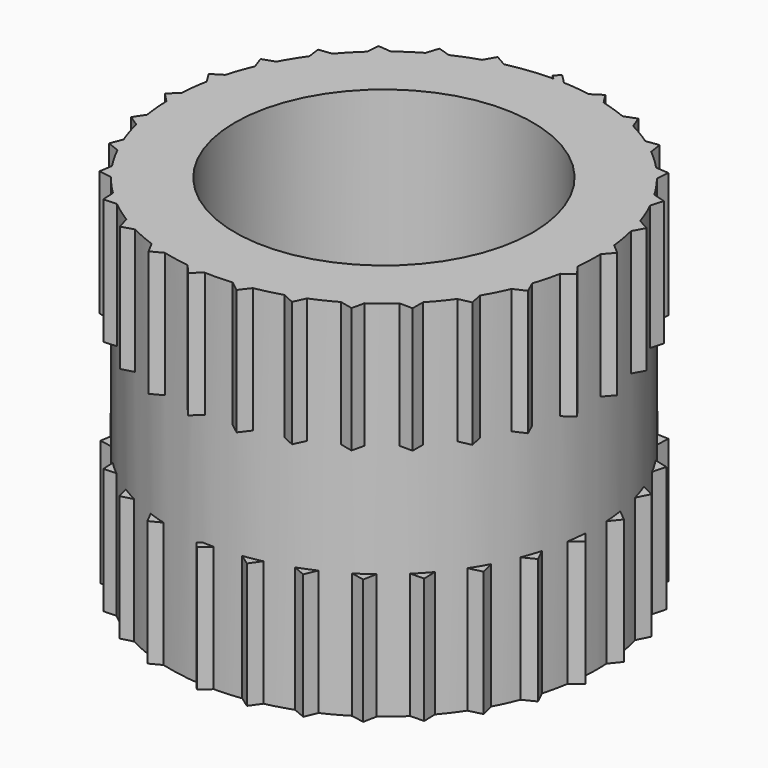
from build123d import *

# Parameters (mm, degrees)
F0_R     = 1.7272
F0_R_2   = 1.2065
F1_DEPTH = 2.9464
F3_DEPTH = 1.016
F5_DEPTH = 1.016


with BuildPart() as f1:
    # F0 (on Top) → F1 (new body)
    with BuildSketch(Plane.XY):
        Circle(F0_R)
        Circle(F0_R_2, mode=Mode.SUBTRACT)
    extrude(amount=F1_DEPTH)

    # F2 (on face) → F3 (join)
    with BuildSketch(Plane.XY.offset(2.9464)):
        with BuildLine():
            ThreePointArc((-1.4064241898, 1.0025920597), (-1.3615544744, 1.0627272714), (-1.3141154147, 1.1208570457))
            Line((-1.3141154147, 1.1208570457), (-1.4195804553, 1.1076497708))
            Line((-1.4195804553, 1.1076497708), (-1.4064241898, 1.0025920597))
        make_face()
        with BuildLine():
            ThreePointArc((-1.1602345768, 1.2794825386), (-1.103571759, 1.328664447), (-1.0448264275, 1.3753390769))
            Line((-1.0448264275, 1.3753390769), (-1.1506817088, 1.3849289833))
            Line((-1.1506817088, 1.3849289833), (-1.1602345768, 1.2794825386))
        make_face()
        with BuildLine():
            ThreePointArc((-0.8606549022, 1.497495569), (-0.7948064127, 1.5334609895), (-0.7274580704, 1.5665326667))
            Line((-0.7274580704, 1.5665326667), (-0.8288324913, 1.5984784594))
            Line((-0.8288324913, 1.5984784594), (-0.8606549022, 1.497495569))
        make_face()
        with BuildLine():
            ThreePointArc((-0.5214708069, 1.6465989304), (-0.44946677, 1.6676928562), (-0.3766145592, 1.6856397343))
            Line((-0.3766145592, 1.6856397343), (-0.4688432126, 1.7384713762))
            Line((-0.4688432126, 1.7384713762), (-0.5214708069, 1.6465989304))
        make_face()
        with BuildLine():
            Line((0.0031935719, 1.8005794859), (-0.0408771885, 1.7565087255))
            Line((-0.0408771885, 1.7565087255), (-0.0084405229, 1.7271793762))
            ThreePointArc((-0.0084405229, 1.7271793762), (0.0349663293, 1.7268460255), (0.0783510961, 1.7254219616))
            Line((0.0783510961, 1.7254219616), (0.0031935719, 1.8005794859))
        make_face()
        with BuildLine():
            Line((0.3871429124, 1.7584700876), (0.2980307434, 1.7012928954))
            ThreePointArc((0.2980307434, 1.7012928954), (0.3716369195, 1.6867441537), (0.4445417919, 1.6690124132))
            Line((0.4445417919, 1.6690124132), (0.3871429124, 1.7584700876))
        make_face()
        with BuildLine():
            Line((0.7532772487, 1.6354418578), (0.6540207996, 1.598585823))
            ThreePointArc((0.6540207996, 1.598585823), (0.7228305053, 1.5686732931), (0.7902761816, 1.5358005719))
            Line((0.7902761816, 1.5358005719), (0.7532772487, 1.6354418578))
        make_face()
        with BuildLine():
            Line((1.366302951, 1.1727373661), (1.2607169048, 1.180598461))
            ThreePointArc((1.2607169048, 1.180598461), (1.3108009254, 1.1247314231), (1.3584113771, 1.0667419419))
            Line((1.3584113771, 1.0667419419), (1.366302951, 1.1727373661))
        make_face()
        with BuildLine():
            Line((1.5849849526, 0.8543531961), (1.4835048558, 0.8845525326))
            ThreePointArc((1.4835048558, 0.8845525326), (1.5205213543, 0.8192891134), (1.5546685274, 0.7524796409))
            Line((1.5546685274, 0.7524796409), (1.5849849526, 0.8543531961))
        make_face()
        with BuildLine():
            Line((1.7307313204, 0.4966545886), (1.638026943, 0.5478024955))
            ThreePointArc((1.638026943, 0.5478024955), (1.6602725455, 0.4761458963), (1.6793851029, 0.403590778))
            Line((1.6793851029, 0.403590778), (1.7307313204, 0.4966545886))
        make_face()
        with BuildLine():
            Line((1.7968353006, 0.1161016207), (1.7171725837, 0.1858444449))
            ThreePointArc((1.7171725837, 0.1858444449), (1.7236236232, 0.1110920594), (1.7268220697, 0.0361300358))
            Line((1.7268220697, 0.0361300358), (1.7968353006, 0.1161016207))
        make_face()
        with BuildLine():
            Line((1.7802550121, -0.2697939501), (1.717299764, -0.184665537))
            ThreePointArc((1.717299764, -0.184665537), (1.7076593854, -0.2590738574), (1.6947965394, -0.3329932881))
            Line((1.6947965394, -0.3329932881), (1.7802550121, -0.2697939501))
        make_face()
        with BuildLine():
            ThreePointArc((-1.6962961288, 0.3252680178), (-1.6805691832, 0.3986314843), (-1.6616708914, 0.4712427067))
            Line((-1.6616708914, 0.4712427067), (-1.7520373024, 0.4152854136))
            Line((-1.7520373024, 0.4152854136), (-1.6962961288, 0.3252680178))
        make_face()
        with BuildLine():
            ThreePointArc((-1.6775288357, -0.4112381855), (-1.6938061607, -0.3379948668), (-1.7068871603, -0.2641137292))
            Line((-1.7068871603, -0.2641137292), (-1.7657128717, -0.3526396721))
            Line((-1.7657128717, -0.3526396721), (-1.6775288357, -0.4112381855))
        make_face()
        with BuildLine():
            ThreePointArc((-1.551223951, -0.7595551948), (-1.5827479031, -0.6914686654), (-1.6112851043, -0.6220772884))
            Line((-1.6112851043, -0.6220772884), (-1.6498767574, -0.7211125912))
            Line((-1.6498767574, -0.7211125912), (-1.551223951, -0.7595551948))
        make_face()
        with BuildLine():
            ThreePointArc((-1.3535369992, -1.0729200492), (-1.3988569531, -1.0131234203), (-1.4415371705, -0.9514149599))
            Line((-1.4415371705, -0.9514149599), (-1.4581189083, -1.0564023537))
            Line((-1.4581189083, -1.0564023537), (-1.3535369992, -1.0729200492))
        make_face()
        with BuildLine():
            ThreePointArc((-1.0935648636, -1.3369127604), (-1.1505953487, -1.2881576703), (-1.2054545835, -1.2369717406))
            Line((-1.2054545835, -1.2369717406), (-1.1992633706, -1.3430800615))
            Line((-1.1992633706, -1.3430800615), (-1.0935648636, -1.3369127604))
        make_face()
        with BuildLine():
            ThreePointArc((-0.7832705807, -1.5393852791), (-0.8493872473, -1.5039152716), (-0.9139010635, -1.4656072755))
            Line((-0.9139010635, -1.4656072755), (-0.8852217986, -1.5679537784))
            Line((-0.8852217986, -1.5679537784), (-0.7832705807, -1.5393852791))
        make_face()
        with BuildLine():
            ThreePointArc((-0.4369328411, -1.6710205063), (-0.5090932245, -1.6504677909), (-0.580292915, -1.6268005326))
            Line((-0.580292915, -1.6268005326), (-0.5304453205, -1.7206755783))
            Line((-0.5304453205, -1.7206755783), (-0.4369328411, -1.6710205063))
        make_face()
        with BuildLine():
            ThreePointArc((-0.0704889336, -1.7257610351), (-0.1453724576, -1.7210713781), (-0.219981654, -1.7131339445))
            Line((-0.219981654, -1.7131339445), (-0.1512595473, -1.7942177218))
            Line((-0.1512595473, -1.7942177218), (-0.0704889336, -1.7257610351))
        make_face()
        with BuildLine():
            ThreePointArc((0.2991986357, -1.701087892), (0.225037857, -1.7124770956), (0.1504524169, -1.7206347405))
            Line((0.1504524169, -1.7206347405), (0.2348866776, -1.7851960488))
            Line((0.2348866776, -1.7851960488), (0.2991986357, -1.701087892))
        make_face()
        with BuildLine():
            Line((0.6102242138, -1.694025706), (0.6551180981, -1.5981364515))
            ThreePointArc((0.6551180981, -1.5981364515), (0.5850926924, -1.625080423), (0.5139631778, -1.6489577593))
            Line((0.5139631778, -1.6489577593), (0.6102242138, -1.694025706))
        make_face()
        with BuildLine():
            Line((0.9574813007, -1.5249020436), (0.9808912468, -1.4216441897))
            ThreePointArc((0.9808912468, -1.4216441897), (0.9182235458, -1.462903059), (0.8538230956, -1.5014013325))
            Line((0.8538230956, -1.5014013325), (0.9574813007, -1.5249020436))
        make_face()
        with BuildLine():
            Line((1.2606783442, -1.2856075592), (1.2615271058, -1.1797326821))
            ThreePointArc((1.2615271058, -1.1797326821), (1.2091008647, -1.2334078559), (1.1543929694, -1.2847555068))
            Line((1.1543929694, -1.2847555068), (1.2606783442, -1.2856075592))
        make_face()
        with BuildLine():
            Line((1.5058632445, -0.9871537735), (1.4841117645, -0.8835338763))
            ThreePointArc((1.4841117645, -0.8835338763), (1.444339461, -0.9471554051), (1.4018415926, -1.0089895883))
            Line((1.4018415926, -1.0089895883), (1.5058632445, -0.9871537735))
        make_face()
        with BuildLine():
            Line((1.6817534238, -0.643274518), (1.6384026314, -0.5466778369))
            ThreePointArc((1.6384026314, -0.5466778369), (1.6131144522, -0.6173180736), (1.5847822184, -0.6867933899))
            Line((1.5847822184, -0.6867933899), (1.6817534238, -0.643274518))
        make_face()
        with BuildLine():
            Line((1.0847483199, 1.4371561385), (0.979915036, 1.4223172509))
            ThreePointArc((0.979915036, 1.4223172509), (1.040761882, 1.3784174059), (1.0996447407, 1.3319163953))
            Line((1.0996447407, 1.3319163953), (1.0847483199, 1.4371561385))
        make_face()
        with BuildLine():
            ThreePointArc((-1.5878949299, 0.6795656934), (-1.556883069, 0.7478869897), (-1.5229332659, 0.8147969733))
            Line((-1.5229332659, 0.8147969733), (-1.6231549221, 0.7794002712))
            Line((-1.6231549221, 0.7794002712), (-1.5878949299, 0.6795656934))
        make_face()
        with BuildLine():
            ThreePointArc((-1.7266395309, -0.0439973892), (-1.7269212014, 0.0310323096), (-1.7239440562, 0.1060034484))
            Line((-1.7239440562, 0.1060034484), (-1.8002968661, 0.0320605292))
            Line((-1.8002968661, 0.0320605292), (-1.7266395309, -0.0439973892))
        make_face()
    extrude(amount=-F3_DEPTH)

    # F4 (on face) → F5 (join)
    with BuildSketch(Plane(origin=(0, 0, 0), x_dir=(1, 0, 0), z_dir=(0, 0, -1))):
        with BuildLine():
            ThreePointArc((-1.6154044941, 0.6113003848), (-1.5892667516, 0.676351264), (-1.5605107221, 0.7402878672))
            Line((-1.5605107221, 0.7402878672), (-1.6526286351, 0.7028206402))
            Line((-1.6526286351, 0.7028206402), (-1.6154044941, 0.6113003848))
        make_face()
        with BuildLine():
            ThreePointArc((-1.447645102, 0.9420952704), (-1.4078708834, 1.0005595513), (-1.3657369862, 1.0573468327))
            Line((-1.3657369862, 1.0573468327), (-1.4646291289, 1.0402320852))
            Line((-1.4646291289, 1.0402320852), (-1.447645102, 0.9420952704))
        make_face()
        with BuildLine():
            ThreePointArc((-1.2133772181, 1.2292011905), (-1.1614521684, 1.2783773701), (-1.1075358958, 1.3253618674))
            Line((-1.1075358958, 1.3253618674), (-1.2089929542, 1.3297842285))
            Line((-1.2089929542, 1.3297842285), (-1.2133772181, 1.2292011905))
        make_face()
        with BuildLine():
            ThreePointArc((-1.708719302, 0.2519884659), (-1.6971561948, 0.3207501995), (-1.6828271593, 0.3889891926))
            Line((-1.6828271593, 0.3889891926), (-1.7643403729, 0.3330764243))
            Line((-1.7643403729, 0.3330764243), (-1.708719302, 0.2519884659))
        make_face()
        with BuildLine():
            ThreePointArc((-1.7230776244, -0.1192616458), (-1.7264833037, -0.0497518042), (-1.7270860609, 0.0198388088))
            Line((-1.7270860609, 0.0198388088), (-1.7946237468, -0.0519861872))
            Line((-1.7946237468, -0.0519861872), (-1.7230776244, -0.1192616458))
        make_face()
        with BuildLine():
            ThreePointArc((-1.6576389629, -0.4852349004), (-1.6758689868, -0.4179509292), (-1.6913691316, -0.3499861437))
            Line((-1.6913691316, -0.3499861437), (-1.7420852187, -0.4346479185))
            Line((-1.7420852187, -0.4346479185), (-1.6576389629, -0.4852349004))
        make_face()
        with BuildLine():
            ThreePointArc((-1.5153057505, -0.8288958454), (-1.5476797717, -0.7667510444), (-1.5775064814, -0.7033442551))
            Line((-1.5775064814, -0.7033442551), (-1.6091424335, -0.797299974))
            Line((-1.6091424335, -0.797299974), (-1.5153057505, -0.8288958454))
        make_face()
        with BuildLine():
            ThreePointArc((-1.3026098718, -1.1342078125), (-1.3479121371, -1.0799781066), (-1.390958338, -1.0239407902))
            Line((-1.390958338, -1.0239407902), (-1.4019129675, -1.1232543357))
            Line((-1.4019129675, -1.1232543357), (-1.3026098718, -1.1342078125))
        make_face()
        with BuildLine():
            ThreePointArc((-1.029415633, -1.3869114228), (-1.0858989111, -1.3431468255), (-1.1405237023, -1.2970834686))
            Line((-1.1405237023, -1.2970834686), (-1.129932818, -1.397511689))
            Line((-1.129932818, -1.397511689), (-1.029415633, -1.3869114228))
        make_face()
        with BuildLine():
            ThreePointArc((-0.7084520825, -1.5752191869), (-0.7738544223, -1.5441402699), (-0.8378966205, -1.510347342))
            Line((-0.8378966205, -1.510347342), (-0.8057175895, -1.6074516402))
            Line((-0.8057175895, -1.6074516402), (-0.7084520825, -1.5752191869))
        make_face()
        with BuildLine():
            ThreePointArc((-0.3546986212, -1.6903871533), (-0.4262839003, -1.6737687643), (-0.4970974633, -1.6541202955))
            Line((-0.4970974633, -1.6541202955), (-0.4441865676, -1.7434134647))
            Line((-0.4441865676, -1.7434134647), (-0.3546986212, -1.6903871533))
        make_face()
        with BuildLine():
            ThreePointArc((0.0153426258, -1.7271318548), (-0.0592894585, -1.7261820878), (-0.1338108259, -1.7220088568))
            Line((-0.1338108259, -1.7220088568), (-0.0619761841, -1.7991406602))
            Line((-0.0619761841, -1.7991406602), (0.0153426258, -1.7271318548))
        make_face()
        with BuildLine():
            ThreePointArc((-0.9235567874, 1.4595419488), (-0.8615067833, 1.4970056454), (-0.7979395844, 1.5318329738))
            Line((-0.7979395844, 1.5318329738), (-0.897483621, 1.5581528622))
            Line((-0.897483621, 1.5581528622), (-0.9235567874, 1.4595419488))
        make_face()
        with BuildLine():
            ThreePointArc((-0.5916237851, 1.6227141267), (-0.5219860523, 1.6464356657), (-0.451401338, 1.6671702589))
            Line((-0.451401338, 1.6671702589), (-0.5444357327, 1.714829236))
            Line((-0.5444357327, 1.714829236), (-0.5916237851, 1.6227141267))
        make_face()
        with BuildLine():
            Line((-0.0758202908, 1.7989464803), (-0.1177816403, 1.7528627632))
            Line((-0.1177816403, 1.7528627632), (-0.0840927375, 1.7251516604))
            ThreePointArc((-0.0840927375, 1.7251516604), (-0.040570502, 1.7267234505), (0.0029775272, 1.7271974335))
            Line((0.0029775272, 1.7271974335), (-0.0758202908, 1.7989464803))
        make_face()
        with BuildLine():
            Line((0.3096783416, 1.7748404245), (0.2223157981, 1.712832603))
            ThreePointArc((0.2223157981, 1.712832603), (0.297603551, 1.7013676753), (0.3723127315, 1.6865951114))
            Line((0.3723127315, 1.6865951114), (0.3096783416, 1.7748404245))
        make_face()
        with BuildLine():
            Line((0.6811660283, 1.6690708817), (0.5811302783, 1.6265015953))
            ThreePointArc((0.5811302783, 1.6265015953), (0.6532927919, 1.5988834755), (0.7241478988, 1.5680655792))
            Line((0.7241478988, 1.5680655792), (0.6811660283, 1.6690708817))
        make_face()
        with BuildLine():
            Line((1.0215481654, 1.4865050079), (0.9133042963, 1.4659792298))
            ThreePointArc((0.9133042963, 1.4659792298), (0.9787867342, 1.4230939424), (1.0422588871, 1.3772858281))
            Line((1.0422588871, 1.3772858281), (1.0215481654, 1.4865050079))
        make_face()
        with BuildLine():
            Line((1.3151615209, 1.2355438656), (1.2037701538, 1.2386110192))
            ThreePointArc((1.2037701538, 1.2386110192), (1.2592415675, 1.1821719481), (1.3120695511, 1.1232512333))
            Line((1.3120695511, 1.1232512333), (1.3151615209, 1.2355438656))
        make_face()
        with BuildLine():
            Line((1.5484950038, 0.9277358356), (1.4393427337, 0.9547315512))
            ThreePointArc((1.4393427337, 0.9547315512), (1.4819087696, 0.8872238943), (1.5213109418, 0.8178220212))
            Line((1.5213109418, 0.8178220212), (1.5484950038, 0.9277358356))
        make_face()
        with BuildLine():
            Line((1.7108113981, 0.5772452), (1.6092933334, 0.6272119316))
            ThreePointArc((1.6092933334, 0.6272119316), (1.6366931008, 0.5517748942), (1.6605588515, 0.4751464412))
            Line((1.6605588515, 0.4751464412), (1.7108113981, 0.5772452))
        make_face()
        with BuildLine():
            Line((1.7946414538, 0.2002003495), (1.7058229266, 0.270902165))
            ThreePointArc((1.7058229266, 0.270902165), (1.71658953, 0.1911549778), (1.723630014, 0.1109928595))
            Line((1.723630014, 0.1109928595), (1.7946414538, 0.2002003495))
        make_face()
        with BuildLine():
            Line((1.7961275959, -0.1860483902), (1.7244168511, -0.0980120595))
            ThreePointArc((1.7244168511, -0.0980120595), (1.7179840628, -0.17818698), (1.7078256612, -0.257975485))
            Line((1.7078256612, -0.257975485), (1.7961275959, -0.1860483902))
        make_face()
        with BuildLine():
            Line((1.7152014372, -0.5637271616), (1.6640654752, -0.4627158246))
            ThreePointArc((1.6640654752, -0.4627158246), (1.640808591, -0.5394135777), (1.6140187403, -0.6149498728))
            Line((1.6140187403, -0.6149498728), (1.7152014372, -0.5637271616))
        make_face()
        with BuildLine():
            Line((1.5555869251, -0.9154564681), (1.5273384661, -0.8065091754))
            ThreePointArc((1.5273384661, -0.8065091754), (1.4885447504, -0.8760447284), (1.4465874762, -0.9437184504))
            Line((1.4465874762, -0.9437184504), (1.5555869251, -0.9154564681))
        make_face()
        with BuildLine():
            Line((1.3246289783, -1.2250509195), (1.3203042671, -1.1135602733))
            ThreePointArc((1.3203042671, -1.1135602733), (1.2680764755, -1.172690024), (1.2132030202, -1.2293731214))
            Line((1.2132030202, -1.2293731214), (1.3246289783, -1.2250509195))
        make_face()
        with BuildLine():
            Line((1.0329554985, -1.4782640288), (1.0522916393, -1.3696357712))
            ThreePointArc((1.0522916393, -1.3696357712), (0.9893956786, -1.4157386874), (0.9244828059, -1.458955579))
            Line((0.9244828059, -1.458955579), (1.0329554985, -1.4782640288))
        make_face()
        with BuildLine():
            Line((0.6939883105, -1.6634437872), (0.7354967505, -1.5627745743))
            ThreePointArc((0.7354967505, -1.5627745743), (0.6651704616, -1.5939787003), (0.5935243014, -1.6220199578))
            Line((0.5935243014, -1.6220199578), (0.6939883105, -1.6634437872))
        make_face()
        with BuildLine():
            ThreePointArc((0.3844471559, -1.683870608), (0.3101905885, -1.6991179002), (0.2353365071, -1.7110922151))
            Line((0.2353365071, -1.7110922151), (0.3233255348, -1.77206885))
            Line((0.3233255348, -1.77206885), (0.3844471559, -1.683870608))
        make_face()
    extrude(amount=-F5_DEPTH)


solid = f1.part
